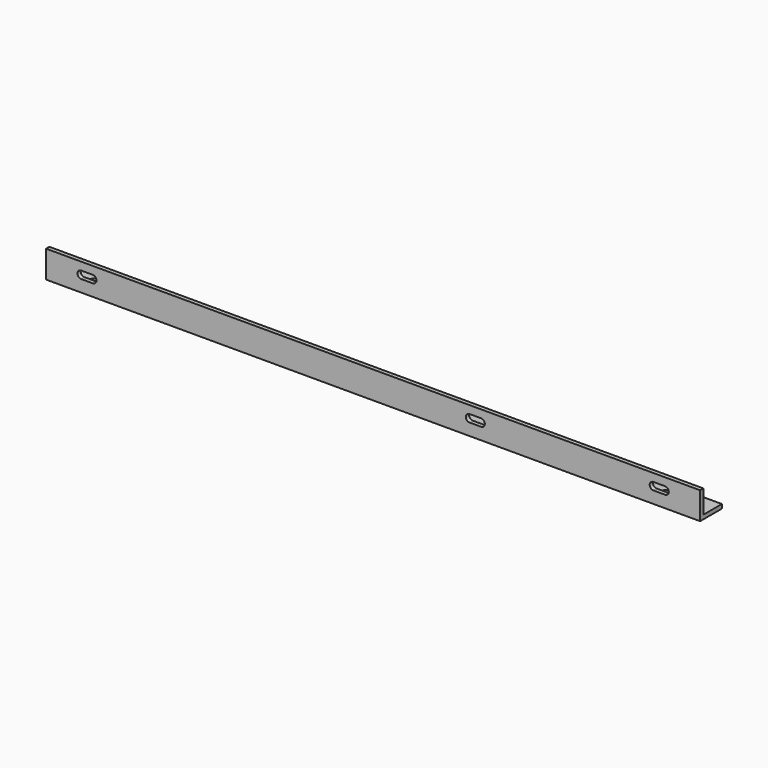
from build123d import *

# Parameters (mm, degrees)
F1_DEPTH = 480
F3_DEPTH = 3
F5_DEPTH = 3


with BuildPart() as f1:
    # F0 (on Right) → F1 (new body)
    with BuildSketch(Plane.YZ):
        Polygon((0, 20), (0, 0), (20, 0), (20, 3), (3, 3), (3, 20), align=None)
    extrude(amount=F1_DEPTH)

    # F2 (on face) → F3 (cut)
    with BuildSketch(Plane(origin=(0, 3, 0), x_dir=(-1, 0, 0), z_dir=(0, 1, 0))):
        with BuildLine():
            Line((-445.75, 14.25), (-454.25, 14.25))
            ThreePointArc((-454.25, 14.25), (-457, 11.5), (-454.25, 8.75))
            Line((-454.25, 8.75), (-445.75, 8.75))
            ThreePointArc((-445.75, 8.75), (-443, 11.5), (-445.75, 14.25))
        make_face()
        with BuildLine():
            Line((-25.75, 14.25), (-34.25, 14.25))
            ThreePointArc((-34.25, 14.25), (-37, 11.5), (-34.25, 8.75))
            Line((-34.25, 8.75), (-25.75, 8.75))
            ThreePointArc((-25.75, 8.75), (-23, 11.5), (-25.75, 14.25))
        make_face()
        with BuildLine():
            Line((-310.75, 14.25), (-319.25, 14.25))
            ThreePointArc((-319.25, 14.25), (-322, 11.5), (-319.25, 8.75))
            Line((-319.25, 8.75), (-310.75, 8.75))
            ThreePointArc((-310.75, 8.75), (-308, 11.5), (-310.75, 14.25))
        make_face()
    extrude(amount=-F3_DEPTH, mode=Mode.SUBTRACT)

    # F4 (on face) → F5 (cut)
    with BuildSketch(Plane.XY.offset(3)):
        with BuildLine():
            Line((454.25, 14.25), (445.75, 14.25))
            ThreePointArc((445.75, 14.25), (443, 11.5), (445.75, 8.75))
            Line((445.75, 8.75), (454.25, 8.75))
            ThreePointArc((454.25, 8.75), (457, 11.5), (454.25, 14.25))
        make_face()
        with BuildLine():
            Line((169.25, 14.25), (160.75, 14.25))
            ThreePointArc((160.75, 14.25), (158, 11.5), (160.75, 8.75))
            Line((160.75, 8.75), (169.25, 8.75))
            ThreePointArc((169.25, 8.75), (172, 11.5), (169.25, 14.25))
        make_face()
        with BuildLine():
            Line((34.25, 14.25), (25.75, 14.25))
            ThreePointArc((25.75, 14.25), (23, 11.5), (25.75, 8.75))
            Line((25.75, 8.75), (34.25, 8.75))
            ThreePointArc((34.25, 8.75), (37, 11.5), (34.25, 14.25))
        make_face()
    extrude(amount=-F5_DEPTH, mode=Mode.SUBTRACT)


solid = f1.part
